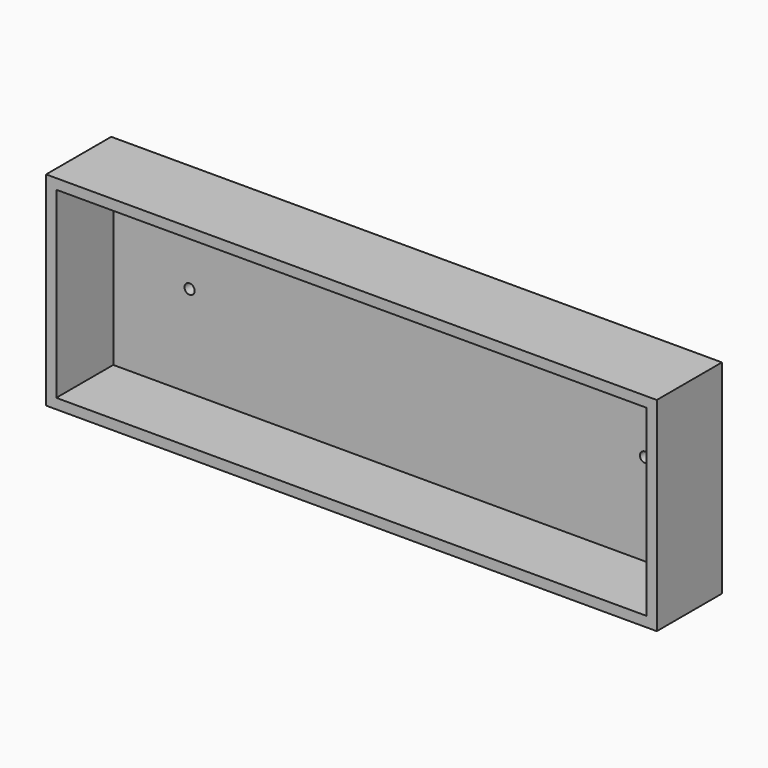
from build123d import *

# Parameters (mm, degrees)
F0_W     = 381
F0_H     = 127
F1_DEPTH = 50.8
F2_W     = 368.3
F2_H     = 114.3
F3_DEPTH = 44.45
F4_R     = 3.175
F5_DEPTH = 6.351


with BuildPart() as f1:
    # F0 (on Front) → F1 (new body)
    with BuildSketch(Plane.XZ):
        with Locations((190.5, 63.5)):
            Rectangle(F0_W, F0_H)
    extrude(amount=-F1_DEPTH)

    # F2 (on face) → F3 (cut)
    with BuildSketch(Plane.XZ):
        with Locations((190.5, 63.5)):
            Rectangle(F2_W, F2_H)
    extrude(amount=-F3_DEPTH, mode=Mode.SUBTRACT)

    # F4 (on face) → F5 (cut, through all)
    with BuildSketch(Plane.XZ.offset(-44.45)):
        with Locations((53.955268, 63.5)):
            Circle(F4_R)
        with Locations((338.098884, 63.5)):
            Circle(F4_R)
    extrude(amount=-F5_DEPTH, mode=Mode.SUBTRACT)


solid = f1.part
